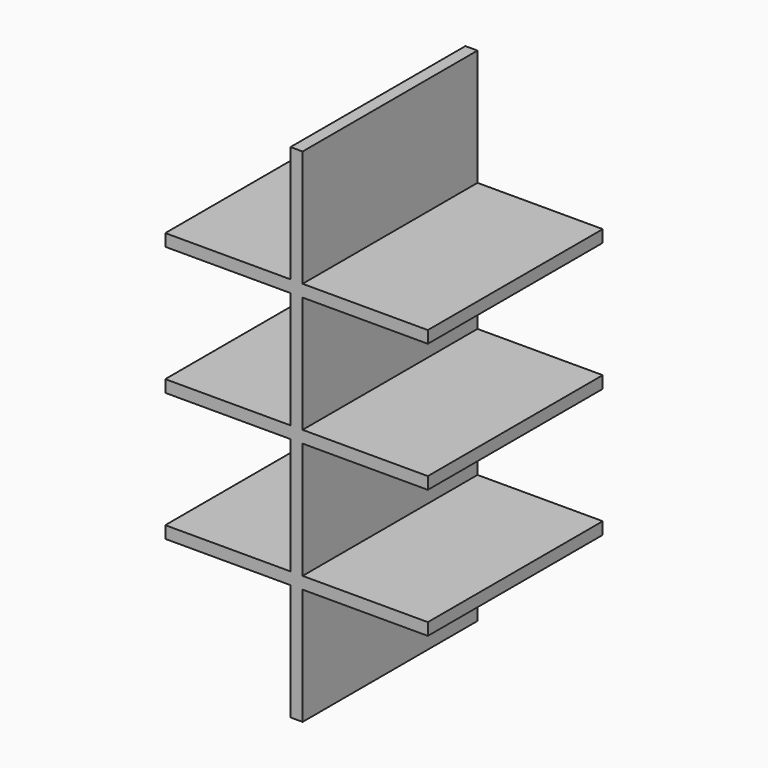
from build123d import *

# Parameters (mm, degrees)
F1_DEPTH = 54.2


with BuildPart() as f1:
    # F0 (on Front) → F1 (new body)
    with BuildSketch(Plane.XZ):
        Polygon((1.5, 1.5), (1.5, 30.375), (32.55, 30.375), (32.55, 33.375), (1.5, 33.375), (1.5, 62.25), (-1.5, 62.25), (-1.5, 33.375), (-32.55, 33.375), (-32.55, 30.375), (-1.5, 30.375), (-1.5, 1.5), (-32.55, 1.5), (-32.55, -1.5), (-1.5, -1.5), (-1.5, -30.375), (-32.55, -30.375), (-32.55, -33.375), (-1.5, -33.375), (-1.5, -62.25), (1.5, -62.25), (1.5, -33.375), (32.55, -33.375), (32.55, -30.375), (1.5, -30.375), (1.5, -1.5), (32.55, -1.5), (32.55, 1.5), align=None)
    extrude(amount=F1_DEPTH)


solid = f1.part
